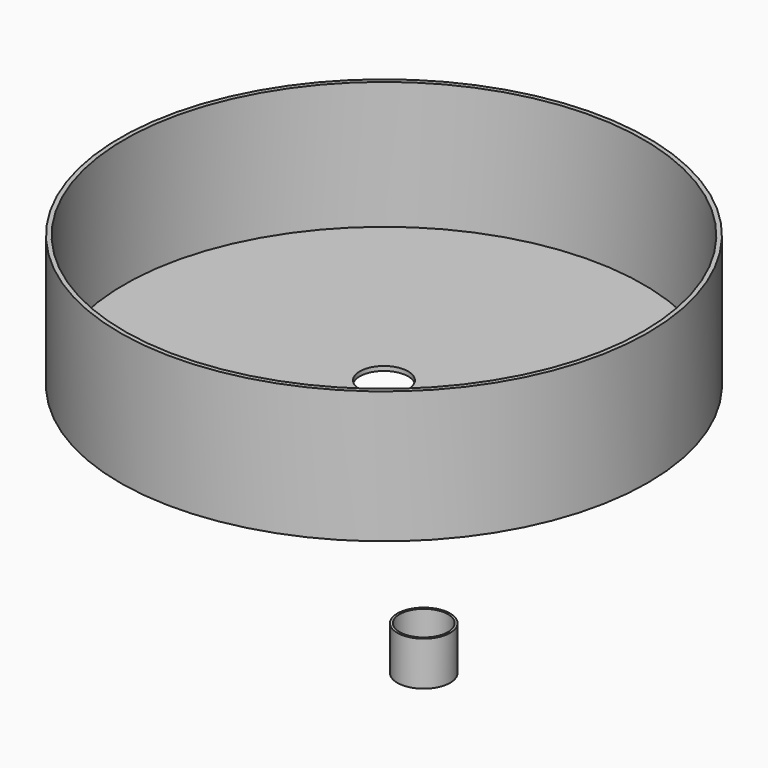
from build123d import *

# Parameters (mm, degrees)
F0_R     = 60
F1_DEPTH = 30
F2_T     = -1
F4_D     = 11
F5_R     = 6
F6_DEPTH = 10
F7_D     = 11


with BuildPart() as f1:
    # F0 (on Top) → F1 (new body)
    with BuildSketch(Plane.XY):
        with Locations((-24.186473, 25.194243)):
            Circle(F0_R)
    extrude(amount=F1_DEPTH)

    # F2
    f2_openings = [f1.faces().sort_by_distance(p)[0] for p in [
        (-24.186473, 25.194243, 30),
    ]]
    offset(amount=F2_T, openings=f2_openings)

    # F4 (through all)
    with Locations(Plane.XY.offset(1)):
        with Locations((-24.186473, 25.194243)):
            Hole(F4_D / 2)


with BuildPart() as f6:
    # F5 (on Top) → F6 (new body)
    with BuildSketch(Plane.XY):
        with Locations((38.45714, -41.797038)):
            Circle(F5_R)
    extrude(amount=-F6_DEPTH)

    # F7 (through all)
    with Locations(Plane.XY):
        with Locations((38.45714, -41.797038)):
            Hole(F7_D / 2)


solid = Compound([f1.part, f6.part])
